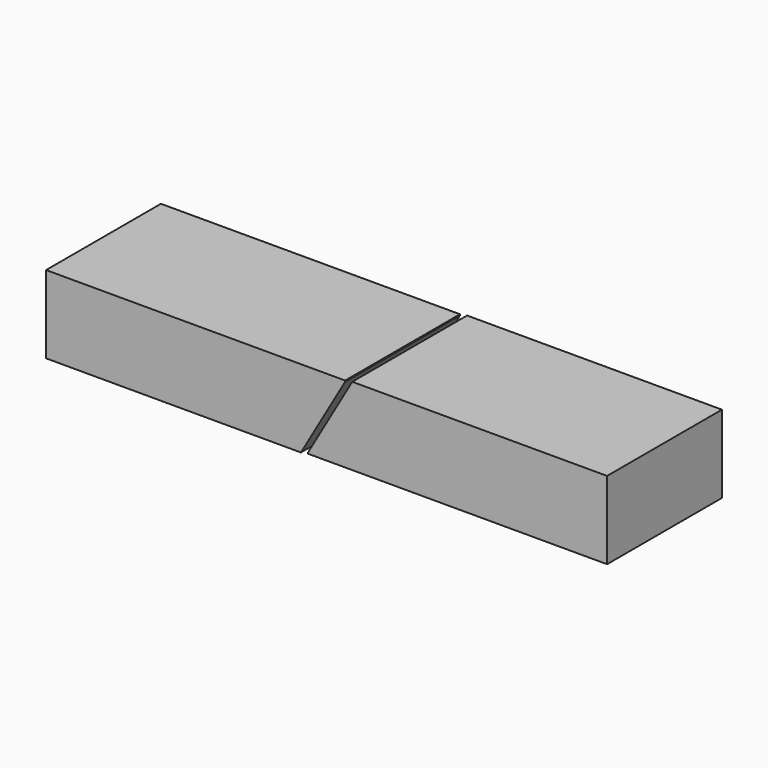
from build123d import *

# Parameters (mm, degrees)
BOX001_W               = 250
BOX001_H               = 120
BOX001_DEPTH           = 65
BOX001_PLACEMENT_ANGLE = 60
BOX142_W               = 250
BOX142_H               = 120
BOX142_DEPTH           = 65
BOX002_W               = 250
BOX002_H               = 120
BOX002_DEPTH           = 65
BOX002_PLACEMENT_ANGLE = 60
BOX003_W               = 250
BOX003_H               = 120
BOX003_DEPTH           = 65
CUT001_PLACEMENT_ANGLE = 180


with BuildPart() as box001:
    # Box001 → Box001 (new body)
    with BuildSketch(Plane.XY):
        with Locations((125, 60)):
            Rectangle(BOX001_W, BOX001_H)
    extrude(amount=BOX001_DEPTH)


with BuildPart() as box001_1:
    # Box001 placement: moved
    add(box001.part.moved(Location((187.927513, 0, 108.5))).rotate(Axis((187.927513, 0, 108.5), (0, 1, 0)), BOX001_PLACEMENT_ANGLE))


with BuildPart() as cut004:
    # Box142 → Box142 (new body)
    with BuildSketch(Plane.XY):
        with Locations((125, 60)):
            Rectangle(BOX142_W, BOX142_H)
    extrude(amount=BOX142_DEPTH)

    # Cut004: cut Box001
    add(box001_1.part, mode=Mode.SUBTRACT)


with BuildPart() as box002:
    # Box002 → Box002 (new body)
    with BuildSketch(Plane.XY):
        with Locations((125, 60)):
            Rectangle(BOX002_W, BOX002_H)
    extrude(amount=BOX002_DEPTH)


with BuildPart() as box002_1:
    # Box002 placement: moved
    add(box002.part.moved(Location((187.927513, 0, 108.5))).rotate(Axis((187.927513, 0, 108.5), (0, 1, 0)), BOX002_PLACEMENT_ANGLE))


with BuildPart() as compound041:
    # Box003 → Box003 (new body)
    with BuildSketch(Plane.XY):
        with Locations((125, 60)):
            Rectangle(BOX003_W, BOX003_H)
    extrude(amount=BOX003_DEPTH)

    # Cut001: cut Box002
    add(box002_1.part, mode=Mode.SUBTRACT)


with BuildPart() as compound041_1:
    # Cut001 placement: moved
    add(compound041.part.moved(Location((469, 0, 64))).rotate(Axis((469, 0, 64), (0, 1, 0)), CUT001_PLACEMENT_ANGLE))

    # Compound041: union Cut004
    add(cut004.part)


with BuildPart() as part_mirroring:
    # Part__Mirroring: instance of Compound041
    add(compound041_1.part.mirror(Plane(origin=(234.5, 60, 0), x_dir=(0, 1, 0), z_dir=(0, 0, 1))))


with BuildPart() as part_mirroring_1:
    # Part__Mirroring placement: moved
    add(part_mirroring.part.moved(Location((0, 0, 65))))


solid = part_mirroring_1.part
